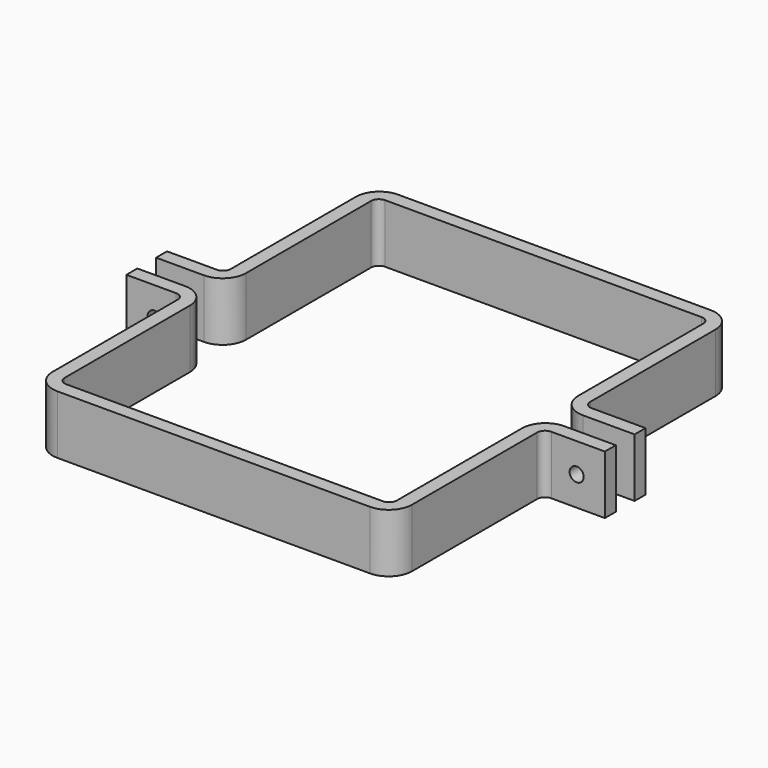
from build123d import *

# Parameters (mm, degrees)
F1_DEPTH = 7.5
F3_D     = 3.6
F4_R     = 2
F5_R     = 6


with BuildPart() as f1:
    # F0 (on Top) → F1 (new body, symmetric)
    with BuildSketch(Plane.XY):
        Polygon((-61.2221807241, 3.5), (-61.2221807241, 0), (-43, 0), (-43, 48), (42, 48), (42, 0), (61.2221807241, 0), (61.2221807241, 3.5), (45.5, 3.5), (45.5, 51.5), (-46.5, 51.5), (-46.5, 3.5), align=None)
    extrude(amount=F1_DEPTH, both=True)

    # F3 (through all)
    with Locations(Plane(origin=(0, 3.5, 0), x_dir=(-1, 0, 0), z_dir=(0, 1, 0))):
        with Locations((54, 0), (-54, 0)):
            Hole(F3_D / 2)

    # F4
    f4_edges = [f1.edges().sort_by_distance(p)[0] for p in [
        (42, 48, 0),
        (-43, 48, 0),
        (-46.5, 3.5, 0),
        (45.5, 3.5, 0),
    ]]
    fillet(f4_edges, radius=F4_R)

    # F5
    f5_edges = [f1.edges().sort_by_distance(p)[0] for p in [
        (45.5, 51.5, 0),
        (-46.5, 51.5, 0),
        (42, 0, 0),
        (-43, 0, 0),
    ]]
    fillet(f5_edges, radius=F5_R)


with BuildPart() as f8_1:
    # F8: instance of F1
    add(f1.part.mirror(Plane.XZ.offset(3)))


solid = Compound([f1.part, f8_1.part])
